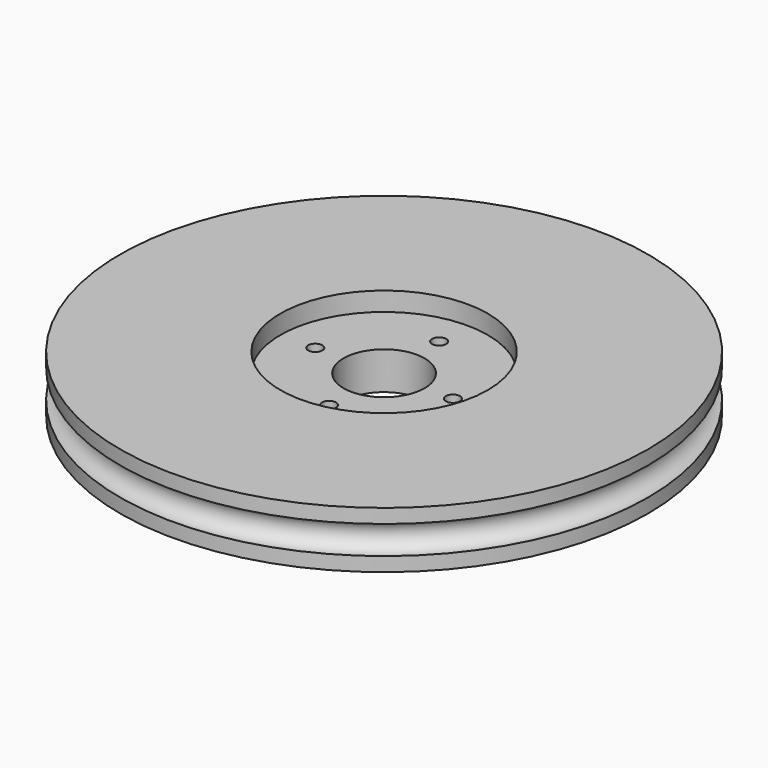
from build123d import *

# Parameters (mm, degrees)
CYLINDER003_R     = 0.75
CYLINDER003_DEPTH = 10
ARRAY_COUNT       = 4
CYLINDER002_R     = 4.3
CYLINDER002_DEPTH = 10
CYLINDER001_R     = 11
CYLINDER001_DEPTH = 10
TORUS_R           = 1.5
CYLINDER_R        = 28
CYLINDER_DEPTH    = 6


with BuildPart() as array:
    # Cylinder003 → Cylinder003 (new body)
    with BuildSketch(Plane(origin=(7.3, 0, -5), x_dir=(1, 0, 0), z_dir=(0, 0, 1))):
        Circle(CYLINDER003_R)
    extrude(amount=CYLINDER003_DEPTH)

    # Array: Array ×4 about axis
    array_axis = Axis((0, 0, 0), (0, 0, 1))


with BuildPart() as array_1:
    add(array.part)
    for i in range(1, ARRAY_COUNT):
        add(array.part.rotate(array_axis, i * 360 / ARRAY_COUNT))


with BuildPart() as hueco_del_eje:
    # Cylinder002 → Cylinder002 (new body)
    with BuildSketch(Plane.XY.offset(-4)):
        Circle(CYLINDER002_R)
    extrude(amount=CYLINDER002_DEPTH)


with BuildPart() as corona_servo:
    # Cylinder001 → Cylinder001 (new body)
    with BuildSketch(Plane.XY.offset(1)):
        Circle(CYLINDER001_R)
    extrude(amount=CYLINDER001_DEPTH)


with BuildPart() as obj1:
    # Torus → Torus (revolve)
    with BuildSketch(Plane.XZ):
        with Locations((28, 0)):
            Circle(TORUS_R)
    revolve(axis=Axis((0, 0, 0), (0, 0, 1)))


with BuildPart() as obj2:
    # Cylinder → Cylinder (new body)
    with BuildSketch(Plane.XY.offset(-3)):
        Circle(CYLINDER_R)
    extrude(amount=CYLINDER_DEPTH)

    # Cut: cut obj1
    add(obj1.part, mode=Mode.SUBTRACT)

    # Cut001: cut Corona servo
    add(corona_servo.part, mode=Mode.SUBTRACT)

    # Cut002: cut Hueco del eje
    add(hueco_del_eje.part, mode=Mode.SUBTRACT)

    # Cut003: cut Array
    add(array_1.part, mode=Mode.SUBTRACT)


solid = obj2.part
